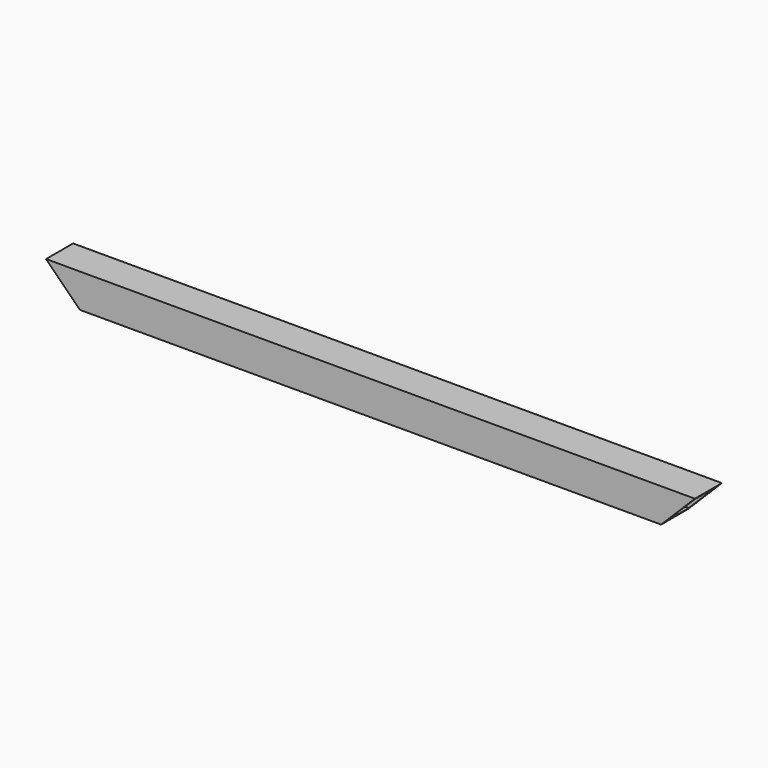
from build123d import *

# Parameters (mm, degrees)
SKETCH_W       = 31.75
SKETCH_H       = 31.75
SKETCH_W_2     = 26.2128
SKETCH_H_2     = 26.2128
PAD_DEPTH      = 304.8
PAD_DEPTH_BACK = 304.8
POCKET_DEPTH   = 31.75


with BuildPart() as part:
    # Sketch → Pad (new body, two sides)
    with BuildSketch(Plane.YZ) as pad_sk:
        Rectangle(SKETCH_W, SKETCH_H)
        Rectangle(SKETCH_W_2, SKETCH_H_2, mode=Mode.SUBTRACT)
    extrude(amount=PAD_DEPTH)
    extrude(pad_sk.sketch, amount=-PAD_DEPTH_BACK)

    # Sketch001 → Pocket (cut)
    with BuildSketch(Plane(origin=(0, -15.875, 0), x_dir=(0, 0, -1), z_dir=(0, -1, 0))):
        Polygon((-15.875, 304.8), (15.875, 304.8), (15.875, 273.05), align=None)
    pocket = extrude(amount=-POCKET_DEPTH, mode=Mode.SUBTRACT)

    # Mirrored: Pocket across Sketch001 H_Axis
    add(pocket.mirror(Plane(origin=(0, -15.875, 0), x_dir=(0, -1, 0), z_dir=(1, 0, 0))), mode=Mode.SUBTRACT)


solid = part.part
